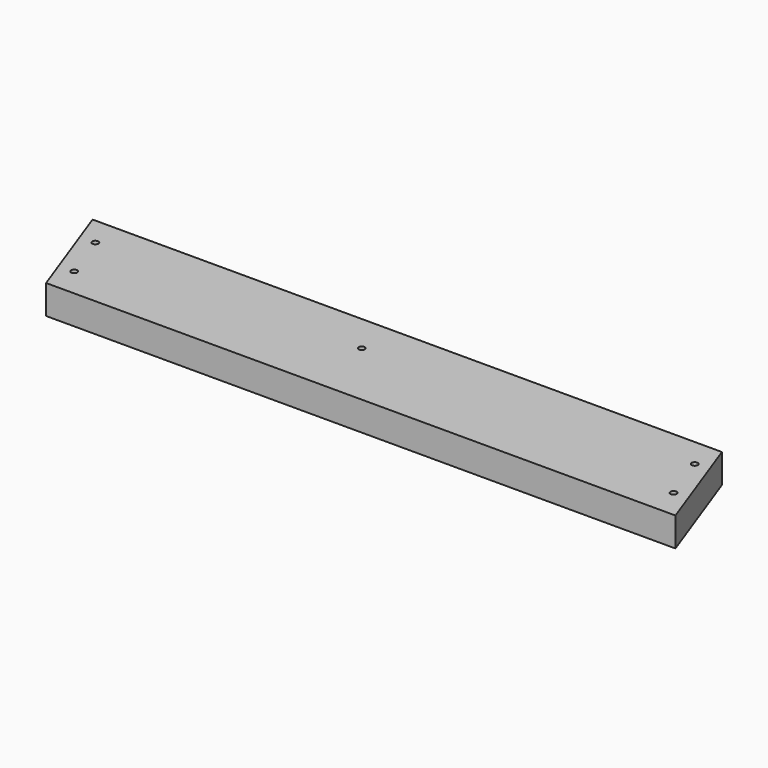
from build123d import *

# Parameters (mm, degrees)
F0_R     = 2.032
F1_DEPTH = 19.05


with BuildPart() as f1:
    # F0 (on Top) → F1 (new body)
    with BuildSketch(Plane.XY):
        Polygon((193.675, 34.925), (-219.075, 34.925), (-193.675, -34.925), (219.075, -34.925), align=None)
        with Locations((-190.467067, -15.875)):
            Circle(F0_R, mode=Mode.SUBTRACT)
        with Locations((202.622727, -15.875)):
            Circle(F0_R, mode=Mode.SUBTRACT)
        with Locations((-202.012521, 15.875)):
            Circle(F0_R, mode=Mode.SUBTRACT)
        with Locations((-22.225, 9.525)):
            Circle(F0_R, mode=Mode.SUBTRACT)
        with Locations((191.077273, 15.875)):
            Circle(F0_R, mode=Mode.SUBTRACT)
    extrude(amount=F1_DEPTH)


solid = f1.part
